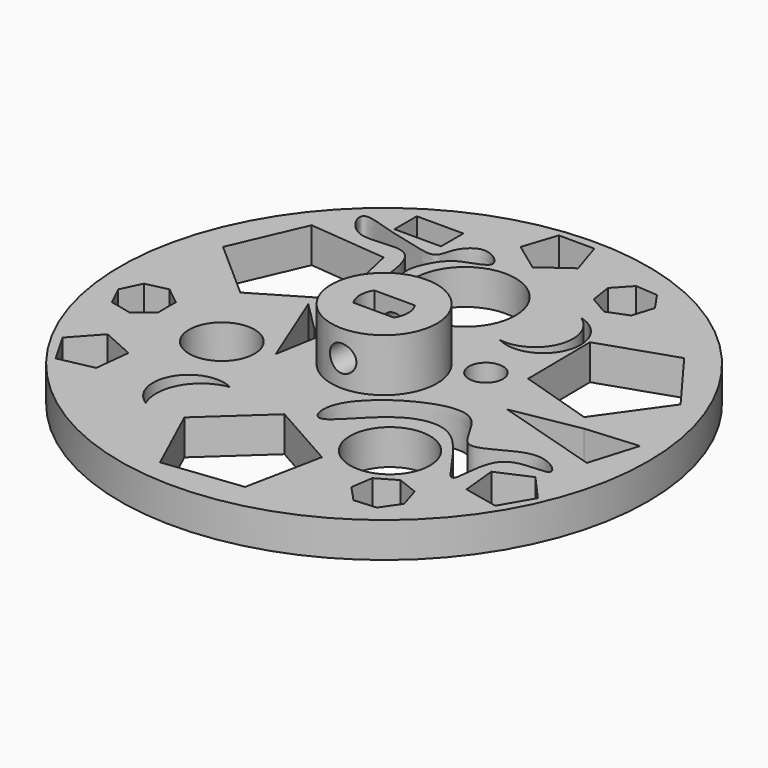
from build123d import *

# Parameters (mm, degrees)
F0_R      = 30
F0_R_2    = 6
F1_DEPTH  = 4
F2_DEPTH  = 6
F3_R      = 1.5
F4_DEPTH  = 12.5
F5_W      = 4.6
F5_H      = 3
F6_DEPTH  = 9.4
F9_DEPTH  = 25
F10_R     = 3.7190670388
F10_R_2   = 5.7456459778
F10_R_3   = 4.5442822726
F10_R_4   = 1.9334507073
F10_W     = 5.2931815268
F10_H     = 3.1790100038
F11_DEPTH = 25


with BuildPart() as f1:
    # F0 (on Top) → F1 (new body)
    with BuildSketch(Plane.XY):
        Circle(F0_R)
        Circle(F0_R_2, mode=Mode.SUBTRACT)
        Circle(F0_R_2)
    extrude(amount=-F1_DEPTH)

    # F0 (on Top) → F2 (join)
    with BuildSketch(Plane.XY):
        Circle(F0_R_2)
    extrude(amount=F2_DEPTH)

    # F3 (on Front) → F4 (cut, symmetric)
    with BuildSketch(Plane.XZ):
        with Locations((0, 3)):
            Circle(F3_R)
    extrude(amount=F4_DEPTH, both=True, mode=Mode.SUBTRACT)

    # F5 (on face) → F6 (cut)
    with BuildSketch(Plane.XY.offset(6)):
        Rectangle(F5_W, F5_H)
        with BuildLine():
            ThreePointArc((2.3, -1.5), (2.7459060435, 0), (2.3, 1.5))
            Line((2.3, 1.5), (2.3, -1.5))
        make_face()
        with BuildLine():
            Line((-2.3, -1.5), (-2.3, 1.5))
            ThreePointArc((-2.3, 1.5), (-2.7459060435, 0), (-2.3, -1.5))
        make_face()
    extrude(amount=-F6_DEPTH, mode=Mode.SUBTRACT)

    # F8 (on face) → F9 (cut)
    with BuildSketch(Plane(origin=(0, 0, -4), x_dir=(1, 0, 0), z_dir=(0, 0, -1))):
        Polygon((-0.8696701129, 13.0649305377), (6.8855096338, 17.4356937912), (5.1251490965, 26.1619481481), (-3.7179932947, 27.1843066815), (-7.4229953226, 19.089904647), align=None)
        Polygon((-18.5425085727, -2.7548206348), (-25.2194862569, -8.6424647583), (-21.6833035231, -16.8120299851), (-12.8208447189, -15.973454845), (-10.8797266878, -7.2856216795), align=None)
        Polygon((11.6569989389, -14.6808731564), (20.0943371605, -17.5194833897), (25.4012968178, -10.3722766964), (20.2438400414, -3.116449802), (11.7493968007, -5.7793088581), align=None)
        Polygon((-22.7281738473, 10.8613711727), (-19.0352323996, 12.5231961774), (-19.4745402328, 16.5489243737), (-23.4389888528, 17.3751362237), (-25.4498450135, 13.8600350327), align=None)
        Polygon((-1.3277898264, -22.7465929137), (-4.5945187965, -25.1399087554), (-3.3278149375, -28.9863278974), (0.7217800711, -28.9702298204), (1.9578635681, -25.1138615197), align=None)
        Polygon((20.3630222261, 10.2233967363), (24.0690590293, 8.5909843817), (26.7668037904, 11.6111916737), (24.7280649424, 15.1101947878), (20.7703102791, 14.252490347), align=None)
        Polygon((-21.8486953527, 2.2704577638), (-21.8486953527, 4.7997683653), (-23.8261900098, 6.376767731), (-26.2920855138, 5.8139431737), (-27.3895122549, 3.5351130646), (-26.2920855138, 1.2562829554), (-23.8261900098, 0.6934583981), align=None)
        Polygon((11.3125424157, -20.980815023), (8.9580735746, -20.0567540969), (6.7676263397, -21.3214093976), (6.3906521558, -23.8224696894), (8.1110202723, -25.6765855603), (10.6332584083, -25.4875699423), (12.0580698032, -23.3977554511), align=None)
        Polygon((12.5136475941, 20.2873566249), (12.890621778, 17.786296333), (15.081069013, 16.5216410323), (17.435537854, 17.4457019584), (18.1810652415, 19.8626423865), (16.7562538466, 21.9524568777), (14.2340157106, 22.1414724957), align=None)
    extrude(amount=-F9_DEPTH, mode=Mode.SUBTRACT)

    # F10 (on face) → F11 (cut)
    with BuildSketch(Plane(origin=(0, 0, -4), x_dir=(1, 0, 0), z_dir=(0, 0, -1))):
        with Locations((-13.920946978, 5.6512663141)):
            Circle(F10_R)
        with Locations((-2.4537974969, -14.5581644028)):
            Circle(F10_R_2)
        with Locations((10.8299283311, 12.6905068755)):
            Circle(F10_R_3)
        with Locations((8.1050628796, -4.3399124406)):
            Circle(F10_R_4)
        with Locations((-12.8208447189, -22.3921574652)):
            Rectangle(F10_W, F10_H)
        with BuildLine():
            ThreePointArc((-7.9035311937, 12.009290047), (-11.6123334138, 14.5558939564), (-11.8502857034, 19.0485306084))
            ThreePointArc((-11.8502857034, 19.0485306084), (-13.2529644409, 13.6360265576), (-7.9035311937, 12.009290047))
        make_face()
        with BuildLine():
            ThreePointArc((5.1531232893, -10.0167198107), (9.7937536043, -12.7412348879), (8.1050628796, -17.8507119417))
            ThreePointArc((8.1050628796, -17.8507119417), (11.0568610438, -12.2652812752), (5.1531232893, -10.0167198107))
        make_face()
        Polygon((25.9302332997, 3.607616527), (14.0089420602, 0), (21.6158628464, -1.3879731996), (27.5905723432, -1.8789381403), align=None)
        Polygon((-8.698284626, 4.5159053989), (-12.4449767172, -4.794056993), (-9.0388935059, -1.3879731996), (-6.7681707442, -6.6106352024), align=None)
        with BuildLine():
            add(Edge.make_bspline(
                [(1.7470399616, 8.2625979558), (3.3625636483, 5.1918118813), (13.3202664692, -0.4817368491), (14.7195875342, 10.158305815), (21.1204591089, 3.5328169223), (26.5501325121, 8.0875501496), (18.1147794298, 6.1898136931), (19.5310047064, 17.3981707054), (13.5592727098, 4.4056402594), (6.0957476127, 7.1259148079), (1.7335325729, 13.5853165044), (0.8659197014, 9.9374306105), (1.7470399616, 8.2625979558)],
                knots=[0, 0, 0, 0, 0.1394884723, 0.2372807212, 0.3410833164, 0.4159990123, 0.5050893166, 0.6000463722, 0.718058477, 0.8261295694, 0.9239218094, 1, 1, 1, 1], degree=3))
        make_face()
        with BuildLine():
            add(Edge.make_bspline(
                [(-19.2571450025, -20.980815023), (-19.6034317863, -20.4465716766), (-17.4479135073, -16.4526577122), (-9.2614099467, -20.7758539106), (-11.0460768911, -4.1896953365), (-5.7970842855, -9.8379974247), (-10.3892527127, -14.0294346712), (-9.1271300714, -17.4827518238), (-7.5910496559, -19.8148397985), (-3.1817166107, -20.5776003725), (-6.738505939, -23.5180499012), (-9.1264300563, -21.1619894983), (-9.1665695003, -18.5626315601), (-12.7639346105, -19.7173164949), (-15.7765289675, -20.2601295852), (-18.9281884601, -21.4883216684), (-19.2571450025, -20.980815023)],
                knots=[0, 0, 0, 0, 0.0690573257, 0.1585580786, 0.2789637716, 0.3431902718, 0.4295135116, 0.4959368331, 0.5593267239, 0.6235997132, 0.6839000823, 0.7462465132, 0.7981163012, 0.8611124378, 0.9343987118, 1, 1, 1, 1], degree=3))
        make_face()
    extrude(amount=-F11_DEPTH, mode=Mode.SUBTRACT)


solid = f1.part
